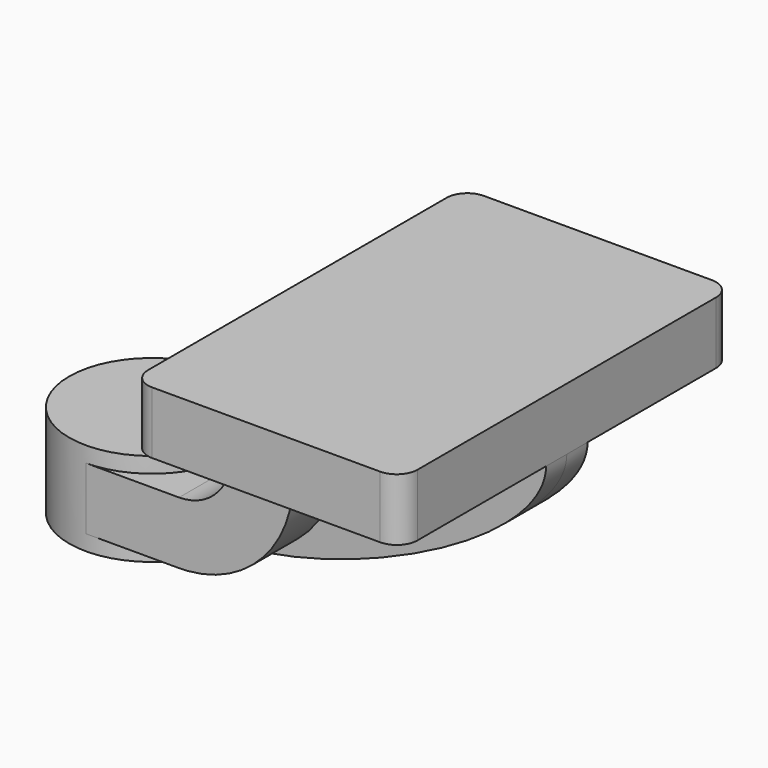
from build123d import *

# Parameters (mm, degrees)
F1_DEPTH = 63.5
F2_DEPTH = 25.4
F0_W     = 25.4
F0_H     = 19.05
F3_DEPTH = 25.4
F4_DEPTH = 7.9375
F6_R     = 6.35


with BuildPart() as f1:
    # F0 (on Front) → F1 (new body, symmetric)
    with BuildSketch(Plane.XZ):
        Polygon((-41.275, 9.525), (-41.275, -9.525), (-22.225, -9.525), (41.275, -9.525), (41.275, 9.525), align=None)
    extrude(amount=F1_DEPTH, both=True)

    # F6
    f6_edges = [f1.edges().sort_by_distance(p)[0] for p in [
        (41.275, -63.5, 0),
        (-41.275, -63.5, 0),
        (-41.275, 63.5, 0),
        (41.275, 63.5, 0),
    ]]
    fillet(f6_edges, radius=F6_R)


with BuildPart() as f2:
    # F0 (on Front) → F2 (new body, symmetric)
    with BuildSketch(Plane.XZ):
        with BuildLine():
            Line((-22.225, -9.525), (-41.275, -9.525))
            Line((-41.275, -9.525), (-41.275, -27.0002))
            ThreePointArc((-41.275, -27.0002), (-45.9246798487, -38.2255201513), (-57.15, -42.8752))
            Line((-57.15, -42.8752), (-60.325, -42.8752))
            Line((-60.325, -42.8752), (-60.325, -61.9252))
            Line((-60.325, -61.9252), (-57.15, -61.9252))
            add(Edge.make_bspline(
                [(-54.2877913944, -61.8077191144), (-55.2570624303, -61.8650354443), (-56.2116101658, -61.9043915786), (-57.15, -61.9252)],
                knots=[108.6532371743, 108.6532371743, 108.6532371743, 108.6532371743, 111.5045361635, 111.5045361635, 111.5045361635, 111.5045361635], degree=3))
            ThreePointArc((-54.2877913944, -61.8077191144), (-31.4622766623, -50.6623320832), (-22.225, -27.0002))
            Line((-22.225, -27.0002), (-22.225, -9.525))
        make_face()
    extrude(amount=F2_DEPTH, both=True)

    # F0 (on Front) → F3 (join, symmetric)
    with BuildSketch(Plane.XZ):
        with Locations((-73.025, -52.4002)):
            Rectangle(F0_W, F0_H)
    extrude(amount=F3_DEPTH, both=True)

    # F0 (on Front) → F5 (revolve)
    with BuildSketch(Plane.XZ):
        Polygon((-85.725, -61.9252), (-85.725, -42.8752), (-85.725, -38.1), (-111.125, -38.1), (-111.125, -66.675), (-85.725, -66.675), align=None)
    revolve(axis=Axis((-85.725, 0, -52.3875), (0, 0, 1)))


with BuildPart() as f4:
    # F0 (on Front) → F4 (new body, symmetric)
    with BuildSketch(Plane.XZ):
        with BuildLine():
            Line((41.275, -9.525), (-22.225, -9.525))
            Line((-22.225, -9.525), (-22.225, -27.0002))
            ThreePointArc((-22.225, -27.0002), (-31.4622766623, -50.6623320832), (-54.2877913944, -61.8077191144))
            add(Edge.make_bspline(
                [(41.275, -9.525), (40.9632731534, -31.3592633093), (-17.3521925131, -59.6235901224), (-54.2877913944, -61.8077191144)],
                knots=[0, 0, 0, 0, 108.6532371743, 108.6532371743, 108.6532371743, 108.6532371743], degree=3))
        make_face()
    extrude(amount=F4_DEPTH, both=True)


solid = Compound([f1.part, f2.part, f4.part])
